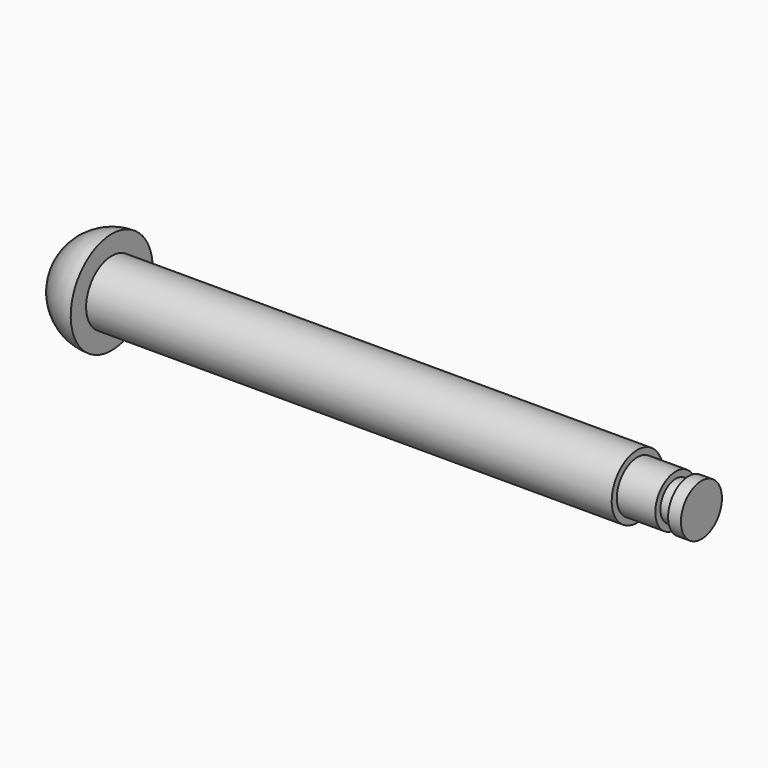
from build123d import *


with BuildPart() as f1:
    # F0 (on Front) → F1 (revolve)
    with BuildSketch(Plane.XZ):
        with BuildLine():
            Line((41, 2.5), (0, 2.5))
            Line((0, 2.5), (0, 4))
            ThreePointArc((0, 4), (-2.828427, 2.828427), (-4, 0))
            Line((-4, 0), (46, 0))
            Line((46, 0), (46, 2))
            Line((46, 2), (45, 2))
            Line((45, 2), (45, 1.5))
            Line((45, 1.5), (44, 1.5))
            Line((44, 1.5), (44, 2))
            Line((44, 2), (41, 2))
            Line((41, 2), (41, 2.5))
        make_face()
    revolve(axis=Axis((18.891413, 0, 0), (1, 0, 0)))


solid = f1.part
